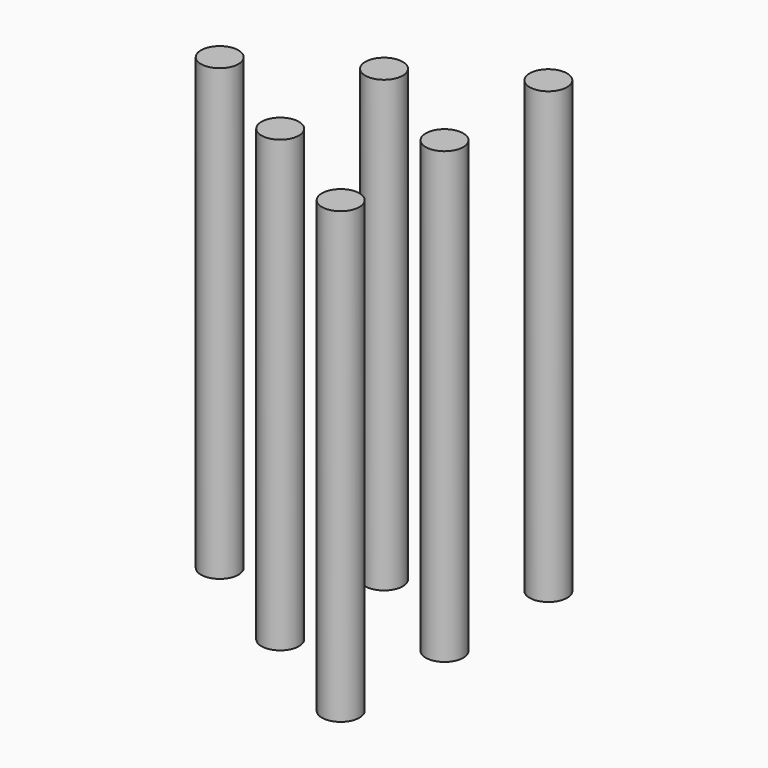
from build123d import *

# Parameters (mm, degrees)
F11_R     = 3.175
F12_DEPTH = 38.1


with BuildPart() as f12:
    # F11 (on Top) → F12 (new body, symmetric)
    with BuildSketch(Plane.XY):
        with Locations((12.7, -21.9970452561)):
            Circle(F11_R)
    extrude(amount=F12_DEPTH, both=True)


with BuildPart() as f12b:
    # F11 (on Top) → F12, piece 2 (new body, symmetric)
    with BuildSketch(Plane.XY):
        with Locations((-6.35, 10.9985226281)):
            Circle(F11_R)
    extrude(amount=F12_DEPTH, both=True)


with BuildPart() as f12c:
    # F11 (on Top) → F12, piece 3 (new body, symmetric)
    with BuildSketch(Plane.XY):
        with Locations((-25.4, 0)):
            Circle(F11_R)
    extrude(amount=F12_DEPTH, both=True)


with BuildPart() as f12d:
    # F11 (on Top) → F12, piece 4 (new body, symmetric)
    with BuildSketch(Plane.XY):
        with BuildLine():
            ThreePointArc((15.875, 0), (12.7, 3.175), (9.525, 0))
            ThreePointArc((9.525, 0), (12.7, -3.175), (15.875, 0))
        make_face()
    extrude(amount=F12_DEPTH, both=True)


with BuildPart() as f12e:
    # F11 (on Top) → F12, piece 5 (new body, symmetric)
    with BuildSketch(Plane.XY):
        with Locations((-6.35, -10.9985226281)):
            Circle(F11_R)
    extrude(amount=F12_DEPTH, both=True)


with BuildPart() as f12f:
    # F11 (on Top) → F12, piece 6 (new body, symmetric)
    with BuildSketch(Plane.XY):
        with Locations((12.7, 21.9970452561)):
            Circle(F11_R)
    extrude(amount=F12_DEPTH, both=True)


solid = Compound([f12.part, f12b.part, f12c.part, f12d.part, f12e.part, f12f.part])
